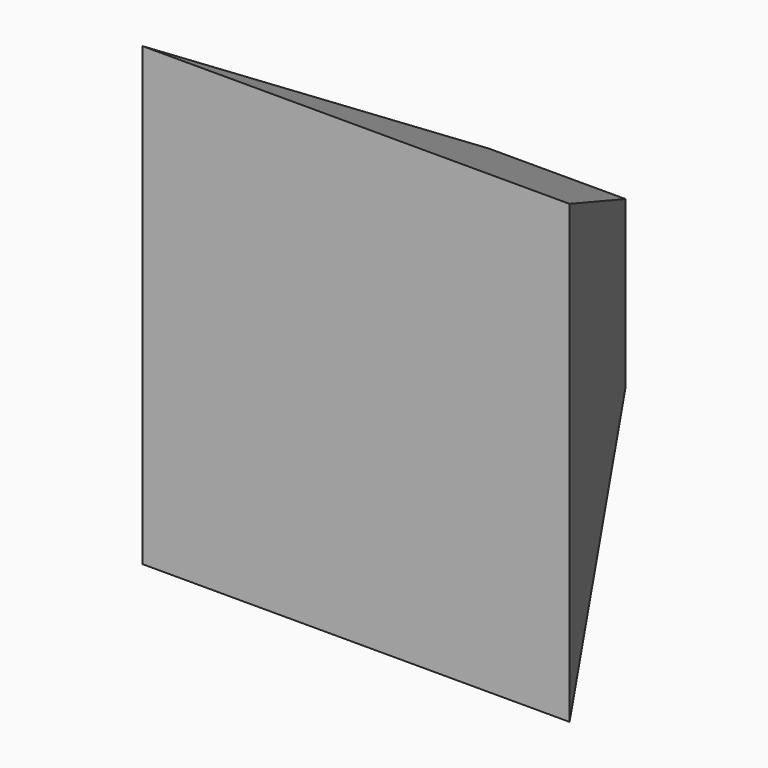
from build123d import *

# Parameters (mm, degrees)
F0_W     = 39.2205901444
F0_H     = 47.5353524089
F1_DEPTH = 72.136
F1_TAPER = -30


with BuildPart() as f1:
    # F0 (on Front) → F1 (new body)
    with BuildSketch(Plane.XZ):
        with Locations((19.6102950722, 23.7676762044)):
            Rectangle(F0_W, F0_H)
    extrude(amount=F1_DEPTH, taper=F1_TAPER)


solid = f1.part
